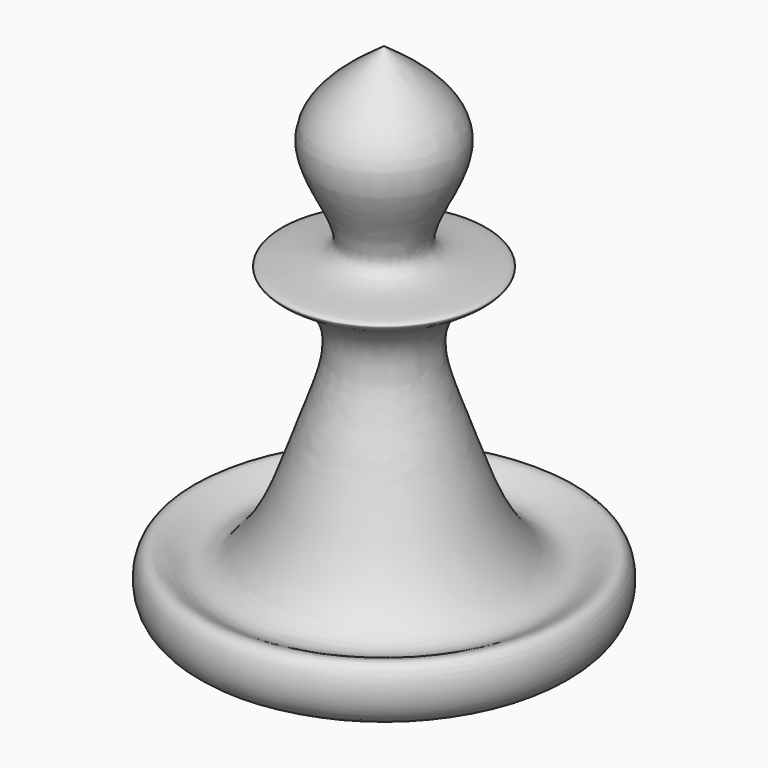
from build123d import *


with BuildPart() as f1:
    # F0 (on Front) → F1 (revolve)
    with BuildSketch(Plane.XZ):
        with BuildLine():
            Line((0, 76.4645040035), (0, 0))
            add(Edge.make_bspline(
                [(0, 76.4645040035), (5.4815252812, 72.5318406703), (15.972571467, 65.0051486373), (-0.198428203, 47.243012443), (21.3300807561, 48.5927416623), (3.9133100426, 42.2007481547), (10.4352476805, 26.584842013), (14.5866309084, 12.4394704924), (22.2694411313, 5.2046758664), (29.0328770091, 12.2434010642), (31.4819285088, -2.9935814978), (12.6472908182, -1.2026167895), (0, 0)],
                knots=[0, 0, 0, 0, 0.1173459864, 0.2245875189, 0.3117511484, 0.3970642895, 0.5068084598, 0.6216026502, 0.7031690703, 0.7717869535, 0.8467569796, 1, 1, 1, 1], degree=3))
        make_face()
    revolve(axis=Axis((0, 0, 38.2322520018), (0, 0, 1)))


solid = f1.part
